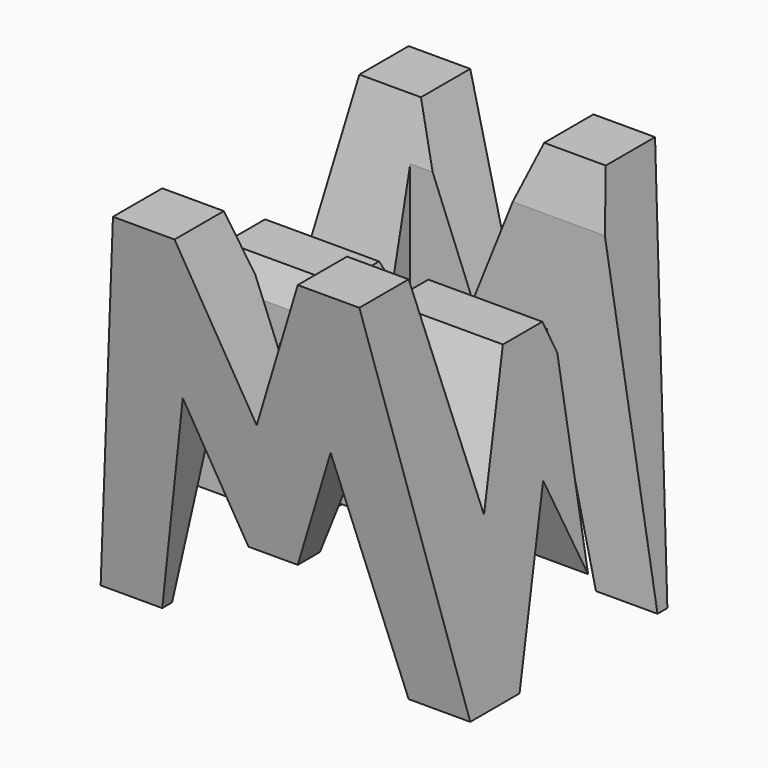
from build123d import *

# Parameters (mm, degrees)
F0_W      = 38.1
F0_H      = 38.1
F1_DEPTH  = 38.1
F6_DEPTH  = 38.1
F8_DEPTH  = 38.1
F9_W      = 25.4898550868
F9_H      = 7.62
F9_W_2    = 27.3198056966
F10_DEPTH = 38.1


with BuildPart() as f1:
    # F0 (on Front) → F1 (new body)
    with BuildSketch(Plane.XZ):
        with Locations((19.05, 19.05)):
            Rectangle(F0_W, F0_H)
    extrude(amount=F1_DEPTH)

    # F5 (on offset) → F6 (cut)
    with BuildSketch(Plane.YZ.offset(38.1)):
        Polygon((-11.43, 15.875), (-6.35, 38.1), (-31.75, 38.1), (-26.67, 15.875), (-21.59, 28.575), (-16.51, 28.575), align=None)
        Polygon((-25.4, 0), (-12.7, 0), (-19.05, 15.875), align=None)
        Polygon((-38.1, 0), (-31.75, 0), (-38.1, 38.1), align=None)
        Polygon((-6.35, 0), (0, 0), (0, 38.1), align=None)
    extrude(amount=-F6_DEPTH, mode=Mode.SUBTRACT)

    # F7 (on offset) → F8 (cut)
    with BuildSketch(Plane.XZ.offset(38.1)):
        Polygon((25.4, 38.1), (12.7, 38.1), (19.05, 22.225), align=None)
        Polygon((11.43, 22.225), (6.35, 0), (31.75, 0), (26.67, 22.225), (21.59, 9.525), (16.51, 9.525), align=None)
        Polygon((0, 38.1), (0, 0), (6.35, 38.1), align=None)
        Polygon((31.75, 38.1), (38.1, 0), (38.1, 38.1), align=None)
    extrude(amount=-F8_DEPTH, mode=Mode.SUBTRACT)

    # F9 (on offset) → F10 (cut)
    with BuildSketch(Plane.XY.offset(38.1)):
        with Locations((25.3550724566, -11.43)):
            Rectangle(F9_W, F9_H)
        with Locations((13.6599028483, -26.67)):
            Rectangle(F9_W_2, F9_H)
    extrude(amount=-F10_DEPTH, mode=Mode.SUBTRACT)


solid = f1.part
